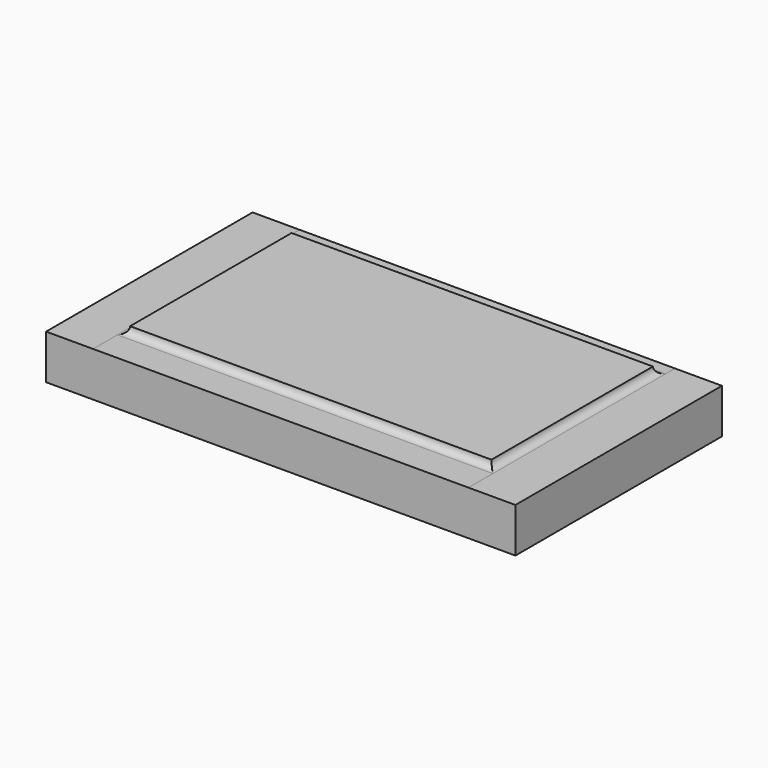
from build123d import *

# Parameters (mm, degrees)
PAD002_DEPTH = 102.5
PAD003_DEPTH = 60


with BuildPart() as pad007:
    # Sketch006 → Pad002 (new body, symmetric)
    with BuildSketch(Plane(origin=(0, 0, 0.0001), x_dir=(0, 1, 0), z_dir=(1, 0, 0))):
        with BuildLine():
            ThreePointArc((-42, -13), (-39.87868, -12.12132), (-39, -10))
            Line((-39, -10), (47, -10))
            ThreePointArc((47, -10), (47.87868, -12.12132), (50, -13))
            Line((55, -13), (50, -13))
            Line((55, -33), (55, -13))
            Line((-55, -33), (55, -33))
            Line((-55, -13), (-55, -33))
            Line((-55, -13), (-42, -13))
        make_face()
    extrude(amount=PAD002_DEPTH, both=True)


with BuildPart() as pad008:
    # Sketch005 → Pad003 (new body, symmetric)
    with BuildSketch(Plane.XZ):
        with BuildLine():
            ThreePointArc((-80, -13), (-77.87868, -12.12132), (-77, -10))
            Line((0, -10), (-77, -10))
            Line((0, -32), (0, -10))
            Line((-100, -32), (0, -32))
            Line((-100, -13), (-100, -32))
            Line((-100, -13), (-80, -13))
        make_face()
    extrude(amount=PAD003_DEPTH, both=True)


with BuildPart() as part_mirroring:
    # Part__Mirroring: instance of Pad008
    add(pad008.part.mirror(Plane(origin=(0, 0, 0), x_dir=(0, -1, 0), z_dir=(1, 0, 0))))


with BuildPart() as common:
    # Fusion base: copy of Pad008
    add(pad008.part)

    # Fusion: union Part__Mirroring
    add(part_mirroring.part)

    # Common: intersect Pad007
    add(pad007.part, mode=Mode.INTERSECT)


solid = common.part
